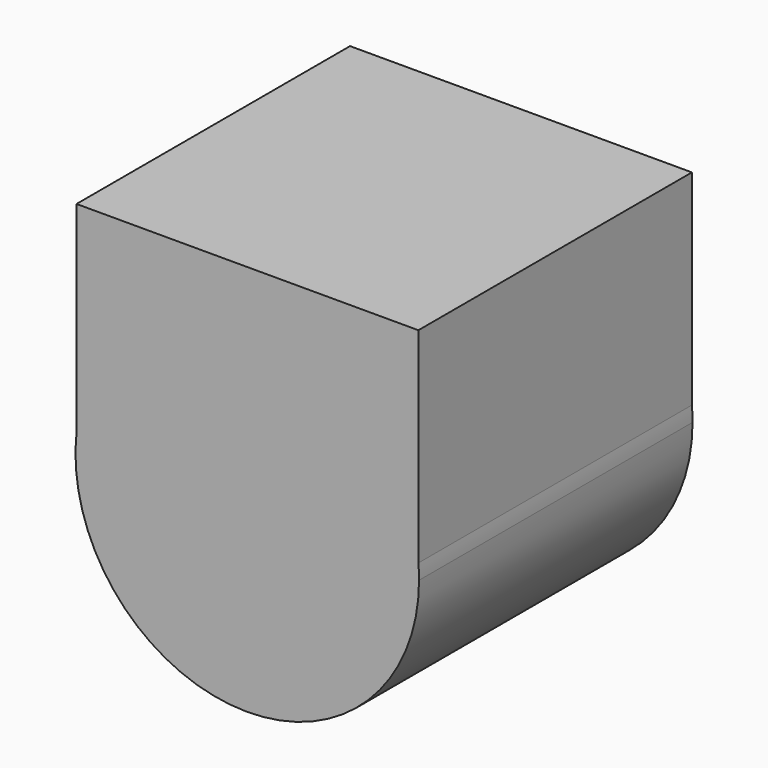
from build123d import *

# Parameters (mm, degrees)
F1_DEPTH = 10.16
F2_DEPTH = 10.16


with BuildPart() as f1:
    # F0 (on Front) → F1 (new body)
    with BuildSketch(Plane.XZ):
        with BuildLine():
            Line((5.086044, 6.534736), (-5.073956, 6.534736))
            Line((-5.073956, 6.534736), (-5.073956, 0.567228))
            ThreePointArc((-5.073956, 0.567228), (0.060908, 5.1052), (5.086044, 0.446012))
            Line((5.086044, 0.446012), (5.086044, 6.534736))
        make_face()
    extrude(amount=F1_DEPTH)

    # F0 (on Front) → F2 (join)
    with BuildSketch(Plane.XZ):
        with BuildLine():
            ThreePointArc((5.086044, 0.446012), (0.060908, 5.1052), (-5.073956, 0.567228))
            ThreePointArc((-5.073956, 0.567228), (-0.284054, -5.097655), (5.105563, 0))
            ThreePointArc((5.105563, 0), (5.100681, 0.223219), (5.086044, 0.446012))
        make_face()
    extrude(amount=F2_DEPTH)


solid = f1.part
